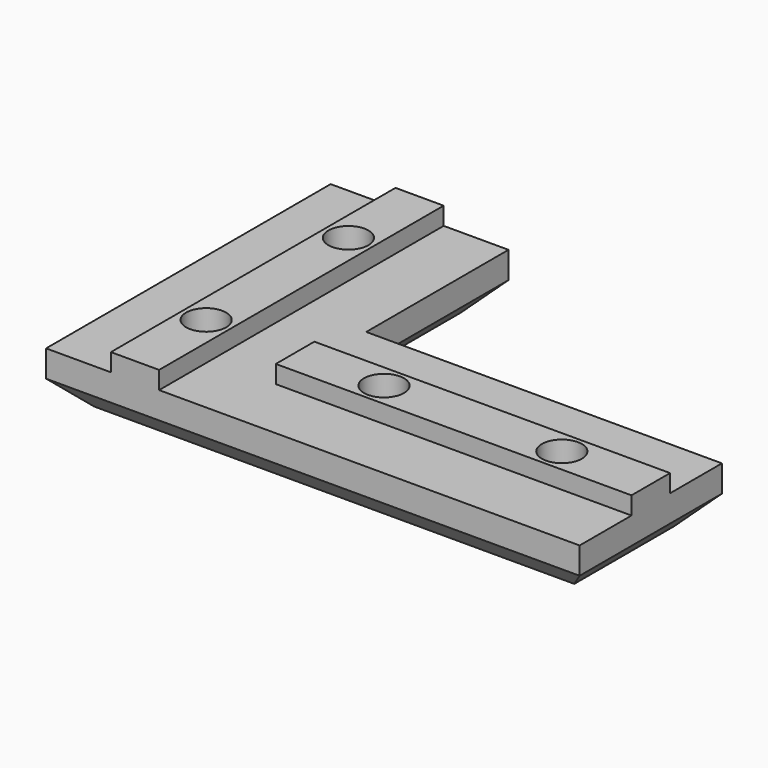
from build123d import *

# Parameters (mm, degrees)
F1_DEPTH = 6
F3_DEPTH = 2
F4_R     = 2.25
F5_DEPTH = 8.001
F6_R     = 3.75
F7_DEPTH = 2
F8_SIZE  = 3


with BuildPart() as f1:
    # F0 (on Top) → F1 (new body)
    with BuildSketch(Plane.XY):
        Polygon((0, 40), (0, 0), (60, 0), (60, 20), (20, 20), (20, 40), align=None)
    extrude(amount=F1_DEPTH)

    # F2 (on face) → F3 (join)
    with BuildSketch(Plane.XY.offset(6)):
        Polygon((12.71, 40), (7.29, 40), (7.29, 0), (10, 0), (12.71, 0), align=None)
        Polygon((60, 7.29), (60, 12.71), (20, 12.71), (20, 10), (20, 7.29), align=None)
    extrude(amount=F3_DEPTH)

    # F4 (on face) → F5 (cut, through all)
    with BuildSketch(Plane(origin=(0, 0, 0), x_dir=(1, 0, 0), z_dir=(0, 0, -1))):
        with Locations((10, -10)):
            Circle(F4_R)
        with Locations((50, -10)):
            Circle(F4_R)
        with Locations((10, -30)):
            Circle(F4_R)
        with Locations((30, -10)):
            Circle(F4_R)
    extrude(amount=-F5_DEPTH, mode=Mode.SUBTRACT)

    # F6 (on face) → F7 (cut)
    with BuildSketch(Plane(origin=(0, 0, 0), x_dir=(1, 0, 0), z_dir=(0, 0, -1))):
        with Locations((10, -10)):
            Circle(F6_R)
        with Locations((30, -10)):
            Circle(F6_R)
        with Locations((50, -10)):
            Circle(F6_R)
        with Locations((10, -30)):
            Circle(F6_R)
    extrude(amount=-F7_DEPTH, mode=Mode.SUBTRACT)

    # F8
    f8_edges = [f1.edges().sort_by_distance(p)[0] for p in [
        (30, 0, 0),
        (0, 20, 0),
        (20, 30, 0),
        (40, 20, 0),
        (60, 10, 0),
        (10, 40, 0),
    ]]
    chamfer(f8_edges, length=F8_SIZE)


solid = f1.part
